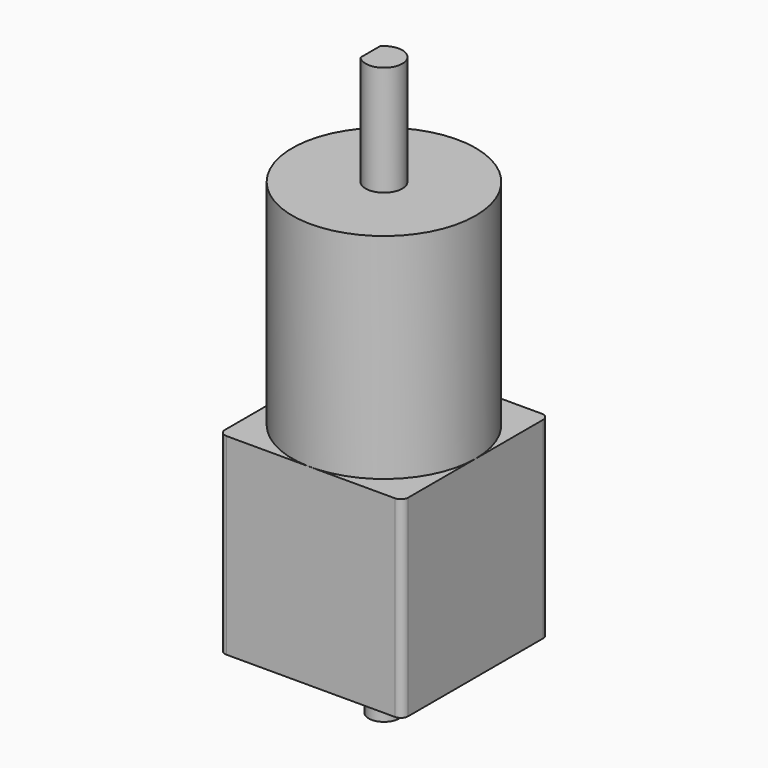
from build123d import *

# Parameters (mm, degrees)
F5_W      = 30
F5_H      = 30
F6_DEPTH  = 31.5
F7_R      = 15
F8_DEPTH  = 35
F9_R      = 3
F10_DEPTH = 18
F12_DEPTH = 12
F13_R     = 2.5
F14_DEPTH = 10
F15_R     = 1.2


with BuildPart() as f6:
    # F5 (on Top) → F6 (new body)
    with BuildSketch(Plane.XY):
        Rectangle(F5_W, F5_H)
    extrude(amount=F6_DEPTH)

    # F13 (on face) → F14 (join)
    with BuildSketch(Plane(origin=(0, 0, 0), x_dir=(1, 0, 0), z_dir=(0, 0, -1))):
        Circle(F13_R)
    extrude(amount=F14_DEPTH)

    # F15
    f15_edges = [f6.edges().sort_by_distance(p)[0] for p in [
        (-15, -15, 15.75),
        (15, -15, 15.75),
        (15, 15, 15.75),
        (-15, 15, 15.75),
    ]]
    fillet(f15_edges, radius=F15_R)


with BuildPart() as f8:
    # F7 (on face) → F8 (new body)
    with BuildSketch(Plane.XY.offset(31.5)):
        Circle(F7_R)
    extrude(amount=F8_DEPTH)

    # F9 (on face) → F10 (join)
    with BuildSketch(Plane.XY.offset(66.5)):
        Circle(F9_R)
    extrude(amount=F10_DEPTH)

    # F11 (on face) → F12 (cut)
    with BuildSketch(Plane.XY.offset(84.5)):
        with BuildLine():
            Line((-2.25, -1.9843134833), (-2.25, 1.9843134833))
            ThreePointArc((-2.25, 1.9843134833), (-3, 0), (-2.25, -1.9843134833))
        make_face()
    extrude(amount=-F12_DEPTH, mode=Mode.SUBTRACT)


solid = Compound([f6.part, f8.part])
